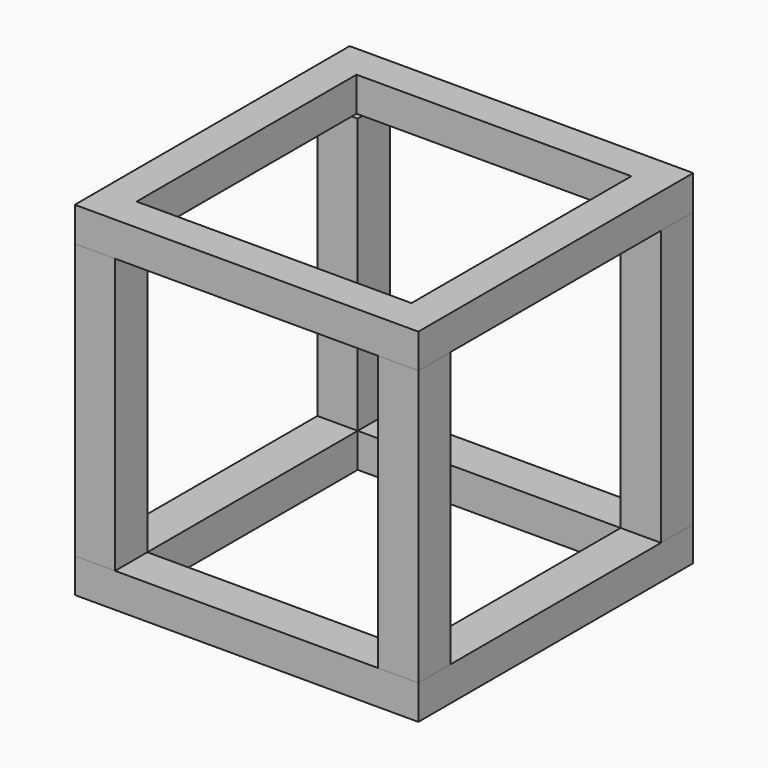
from build123d import *

# Parameters (mm, degrees)
F0_W     = 25.4
F0_H     = 25.4
F0_W_2   = 19.43983
F0_H_2   = 19.43983
F1_DEPTH = 2.54
F2_W     = 2.980085
F2_H     = 2.980085
F3_DEPTH = 20.32
F5_W     = 2.54
F5_H     = 2.54
F5_W_2   = 20.32
F5_H_2   = 20.32
F6_DEPTH = 2.54


with BuildPart() as f1:
    # F0 (on Top) → F1 (new body)
    with BuildSketch(Plane.XY):
        with Locations((12.7, -12.7)):
            Rectangle(F0_W, F0_H)
        with Locations((12.7, -12.7)):
            Rectangle(F0_W_2, F0_H_2, mode=Mode.SUBTRACT)
    extrude(amount=F1_DEPTH)

    # F2 (on face) → F3 (join)
    with BuildSketch(Plane.XY.offset(2.54)):
        with Locations((1.490042, -1.490042)):
            Rectangle(F2_W, F2_H)
        with Locations((23.909957, -1.490042)):
            Rectangle(F2_W, F2_H)
        with Locations((23.909957, -23.909957)):
            Rectangle(F2_W, F2_H)
        with Locations((1.490042, -23.909957)):
            Rectangle(F2_W, F2_H)
    extrude(amount=F3_DEPTH)

    # F5 (on offset) → F6 (join)
    with BuildSketch(Plane.XY.offset(22.86)):
        with Locations((1.27, -1.27)):
            Rectangle(F5_W, F5_H)
        with Locations((12.7, -1.27)):
            Rectangle(F5_W_2, F5_H)
        with Locations((1.27, -12.7)):
            Rectangle(F5_W, F5_H_2)
        with Locations((24.13, -1.27)):
            Rectangle(F5_W, F5_H)
        with Locations((1.27, -24.13)):
            Rectangle(F5_W, F5_H)
        with Locations((24.13, -12.7)):
            Rectangle(F5_W, F5_H_2)
        with Locations((12.7, -24.13)):
            Rectangle(F5_W_2, F5_H)
        with Locations((24.13, -24.13)):
            Rectangle(F5_W, F5_H)
    extrude(amount=F6_DEPTH)


solid = f1.part
